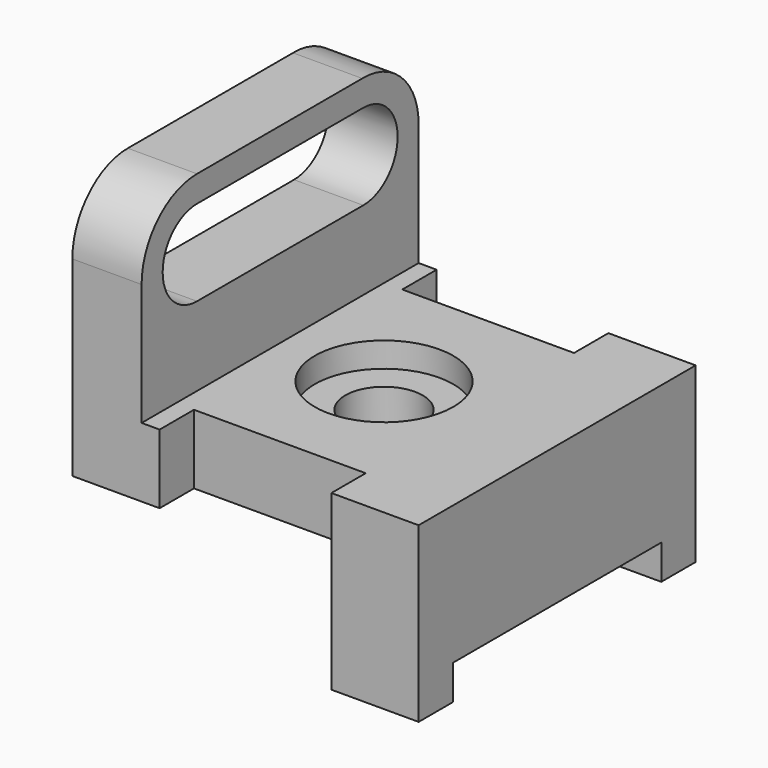
from build123d import *

# Parameters (mm, degrees)
F1_DEPTH  = 12.7
F2_R      = 7.112
F3_DEPTH  = 12.701
F4_R      = 12.7
F5_DEPTH  = 4.572
F7_DEPTH  = 12.7
F8_W      = 16.002
F8_H      = 7.874
F9_DEPTH  = 19.05
F10_W     = 16.002
F10_H     = 12.7
F11_DEPTH = 47.752


with BuildPart() as f1:
    # F0 (on Top) → F1 (new body)
    with BuildSketch(Plane.XY):
        Polygon((0, 63.5), (0, 0), (16.002, 0), (16.002, 7.874), (47.498, 7.874), (47.498, 0), (63.5, 0), (63.5, 63.5), (47.498, 63.5), (47.498, 55.626), (16.002, 55.626), (16.002, 63.5), align=None)
    extrude(amount=F1_DEPTH)

    # F2 (on face) → F3 (cut, through all)
    with BuildSketch(Plane.XY.offset(12.7)):
        with Locations((31.75, 31.75)):
            Circle(F2_R)
    extrude(amount=-F3_DEPTH, mode=Mode.SUBTRACT)

    # F4 (on face) → F5 (cut)
    with BuildSketch(Plane.XY.offset(12.7)):
        with Locations((31.75, 31.75)):
            Circle(F4_R)
    extrude(amount=-F5_DEPTH, mode=Mode.SUBTRACT)

    # F6 (on face) → F7 (join)
    with BuildSketch(Plane(origin=(0, 0, 0), x_dir=(0, -1, 0), z_dir=(-1, 0, 0))):
        with BuildLine():
            ThreePointArc((-50.582985, 47.750007), (-59.867423, 43.952356), (-63.5, 34.602097))
            Line((-63.5, 34.602097), (-63.5, 12.7))
            Line((-63.5, 12.7), (0, 12.7))
            Line((0, 12.7), (0, 35.052))
            ThreePointArc((0, 35.052), (-3.71998, 44.032492), (-12.700668, 47.752))
            Line((-12.700668, 47.752), (-50.582985, 47.750007))
        make_face()
        with BuildLine():
            ThreePointArc((-12.7, 42.926), (-4.826, 35.052), (-12.7, 27.178))
            Line((-12.7, 27.178), (-50.807972, 27.178))
            ThreePointArc((-50.807972, 27.178), (-58.681972, 35.052), (-50.807972, 42.926))
            Line((-50.807972, 42.926), (-12.7, 42.926))
        make_face(mode=Mode.SUBTRACT)
    extrude(amount=-F7_DEPTH)

    # F8 (on face) → F9 (join)
    with BuildSketch(Plane(origin=(0, 0, 0), x_dir=(1, 0, 0), z_dir=(0, 0, -1))):
        with Locations((55.499, -3.937)):
            Rectangle(F8_W, F8_H)
        with Locations((55.499, -59.563)):
            Rectangle(F8_W, F8_H)
    extrude(amount=F9_DEPTH)

    # F10 (on face) → F11 (join, through all)
    with BuildSketch(Plane(origin=(0, 7.874, 0), x_dir=(-1, 0, 0), z_dir=(0, 1, 0))):
        with Locations((-55.499, -6.35)):
            Rectangle(F10_W, F10_H)
    extrude(amount=F11_DEPTH)


solid = f1.part
